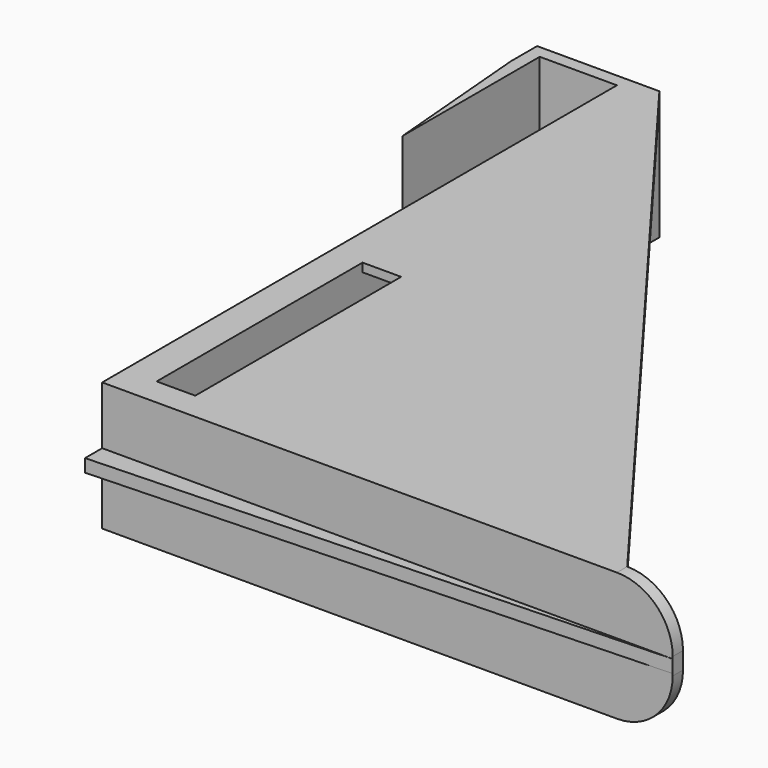
from build123d import *

# Parameters (mm, degrees)
F1_DEPTH  = 30
F2_W      = 133
F2_H      = 3
F3_DEPTH  = 5
F5_DEPTH  = 16.501
F6_R      = 13
F7_W      = 146.5
F7_H      = 30
F8_DEPTH  = 4.5
F10_DEPTH = 2
F11_W     = 9
F11_H     = 60
F12_DEPTH = 2.001


with BuildPart() as f1:
    # F0 (on Top) → F1 (new body)
    with BuildSketch(Plane.XY):
        Polygon((-51.263781, 32.674184), (-48.263781, -2.628919), (-48.263781, 37.371081), (-30.263781, 37.371081), (-30.263781, -112.628919), (102.736219, -112.628919), (102.736219, -109.628919), (-27.263781, -109.628919), (-27.263781, 40.371081), (-51.263781, 40.371081), align=None)
    extrude(amount=F1_DEPTH)

    # F2 (on face) → F3 (join)
    with BuildSketch(Plane.XZ.offset(112.628919)):
        with Locations((36.236219, 15)):
            Rectangle(F2_W, F2_H)
    extrude(amount=F3_DEPTH)

    # F4 (on face) → F5 (cut, through all)
    with BuildSketch(Plane.XY.offset(16.5)):
        Polygon((102.736219, -112.628919), (-30.263781, -117.628919), (102.736219, -117.628919), align=None)
    extrude(amount=-F5_DEPTH, mode=Mode.SUBTRACT)

    # F6
    f6_edges = [f1.edges().sort_by_distance(p)[0] for p in [
        (102.736219, -111.128919, 0),
        (102.736219, -111.128919, 30),
    ]]
    fillet(f6_edges, radius=F6_R)

    # F7 (on face) → F8 (join)
    with BuildSketch(Plane.YZ.offset(-27.263781)):
        with Locations((-32.878919, 15)):
            Rectangle(F7_W, F7_H)
    extrude(amount=F8_DEPTH)

    # F9 (on face) → F10 (join)
    with BuildSketch(Plane.XY.offset(30)):
        Polygon((89.736219, -109.628919), (-22.763781, 40.371081), (-22.763781, -106.128919), (-27.263781, -106.128919), (-27.263781, -109.628919), align=None)
    extrude(amount=-F10_DEPTH)

    # F11 (on face) → F12 (cut, through all)
    with BuildSketch(Plane(origin=(0, 0, 28), x_dir=(1, 0, 0), z_dir=(0, 0, -1))):
        with Locations((-18.263781, 76.128919)):
            Rectangle(F11_W, F11_H)
    extrude(amount=-F12_DEPTH, mode=Mode.SUBTRACT)


solid = f1.part
